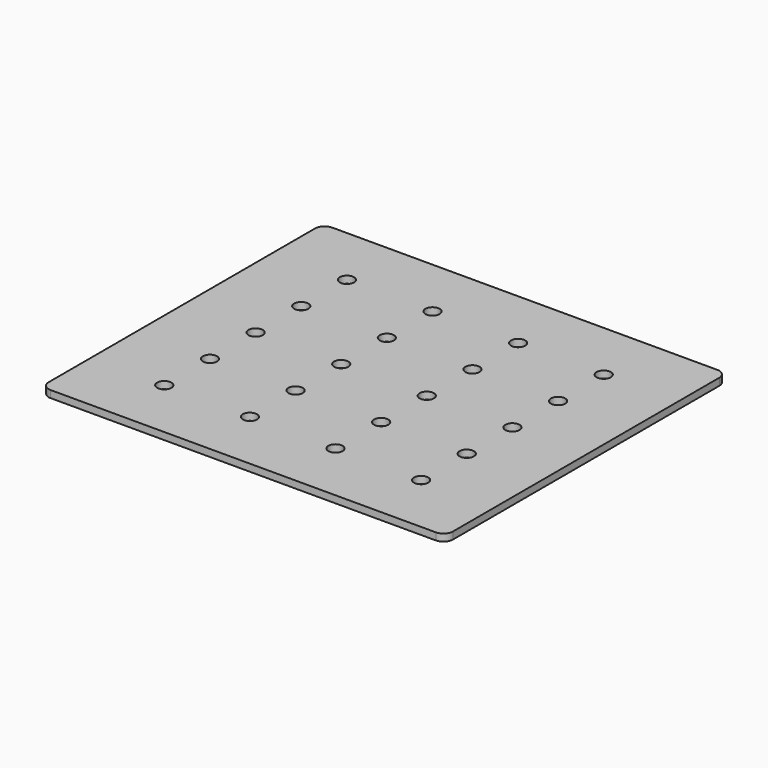
from build123d import *

# Parameters (mm, degrees)
SKETCH001_W  = 85
SKETCH001_H  = 74
SKETCH001_R  = 1.5
PAD_DEPTH    = 1.5
FILLET_R     = 2
SKETCH_W     = 27
SKETCH_H     = 1.5
PAD001_DEPTH = 2


with BuildPart() as part:
    # Sketch001 → Pad (new body)
    with BuildSketch(Plane.XY):
        Rectangle(SKETCH001_W, SKETCH001_H)
        with Locations((-27, 24)):
            Circle(SKETCH001_R, mode=Mode.SUBTRACT)
        with Locations((-9, 24)):
            Circle(SKETCH001_R, mode=Mode.SUBTRACT)
        with Locations((9, 24)):
            Circle(SKETCH001_R, mode=Mode.SUBTRACT)
        with Locations((27, 24)):
            Circle(SKETCH001_R, mode=Mode.SUBTRACT)
        with Locations((-27, 12)):
            Circle(SKETCH001_R, mode=Mode.SUBTRACT)
        with Locations((-9, 12)):
            Circle(SKETCH001_R, mode=Mode.SUBTRACT)
        with Locations((9, 12)):
            Circle(SKETCH001_R, mode=Mode.SUBTRACT)
        with Locations((27, 12)):
            Circle(SKETCH001_R, mode=Mode.SUBTRACT)
        with Locations((-27, 0)):
            Circle(SKETCH001_R, mode=Mode.SUBTRACT)
        with Locations((-9, 0)):
            Circle(SKETCH001_R, mode=Mode.SUBTRACT)
        with Locations((9, 0)):
            Circle(SKETCH001_R, mode=Mode.SUBTRACT)
        with Locations((27, 0)):
            Circle(SKETCH001_R, mode=Mode.SUBTRACT)
        with Locations((-27, -12)):
            Circle(SKETCH001_R, mode=Mode.SUBTRACT)
        with Locations((-9, -12)):
            Circle(SKETCH001_R, mode=Mode.SUBTRACT)
        with Locations((9, -12)):
            Circle(SKETCH001_R, mode=Mode.SUBTRACT)
        with Locations((27, -12)):
            Circle(SKETCH001_R, mode=Mode.SUBTRACT)
        with Locations((-27, -24)):
            Circle(SKETCH001_R, mode=Mode.SUBTRACT)
        with Locations((-9, -24)):
            Circle(SKETCH001_R, mode=Mode.SUBTRACT)
        with Locations((9, -24)):
            Circle(SKETCH001_R, mode=Mode.SUBTRACT)
        with Locations((27, -24)):
            Circle(SKETCH001_R, mode=Mode.SUBTRACT)
    extrude(amount=PAD_DEPTH)

    # Fillet
    fillet_edges = [part.edges().sort_by_distance(p)[0] for p in [
        (-42.5, 37, 0.75),
        (42.5, -37, 0.75),
        (-42.5, -37, 0.75),
        (42.5, 37, 0.75),
    ]]
    fillet(fillet_edges, radius=FILLET_R)

    # Sketch (on Face2 of Fillet) → Pad001 (join)
    with BuildSketch(Plane(origin=(0, 0, 0), x_dir=(1, 0, 0), z_dir=(0, 0, -1))):
        with Locations((-26, -34)):
            Rectangle(SKETCH_W, SKETCH_H)
    extrude(amount=PAD001_DEPTH)


solid = part.part
